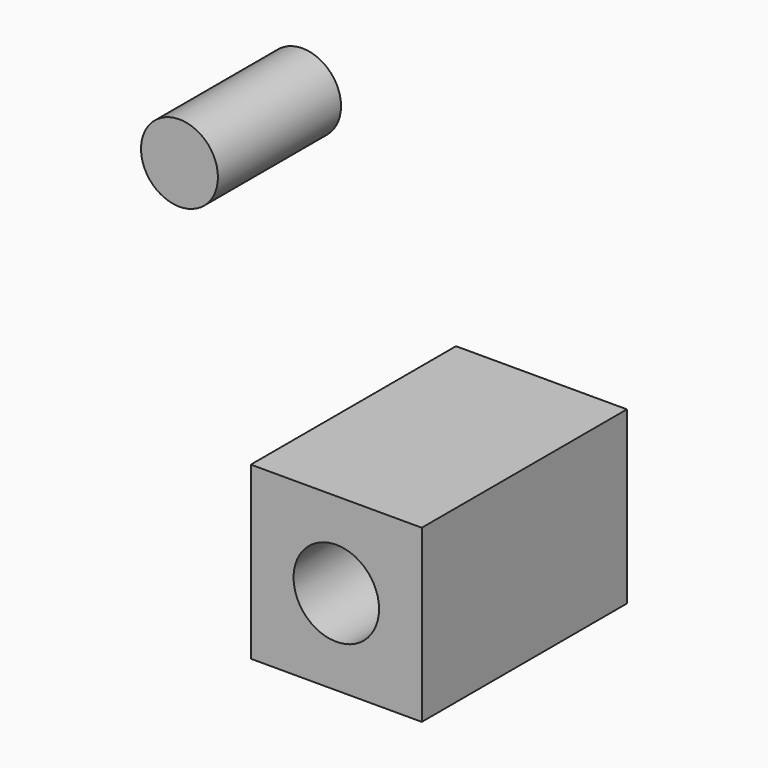
from build123d import *

# Parameters (mm, degrees)
F0_W     = 25.4
F0_H     = 25.4
F1_DEPTH = 38.1
F2_R     = 6.35
F3_DEPTH = 25.4
F4_R     = 5.715
F5_DEPTH = 22.86


with BuildPart() as f1:
    # F0 (on Front) → F1 (new body)
    with BuildSketch(Plane.XZ):
        Rectangle(F0_W, F0_H)
    extrude(amount=F1_DEPTH)

    # F2 (on face) → F3 (cut)
    with BuildSketch(Plane.XZ.offset(38.1)):
        Circle(F2_R)
    extrude(amount=-F3_DEPTH, mode=Mode.SUBTRACT)


with BuildPart() as f5:
    # F4 (on Front) → F5 (new body)
    with BuildSketch(Plane.XZ):
        with Locations((-35.496078, 38.534407)):
            Circle(F4_R)
    extrude(amount=F5_DEPTH)


solid = Compound([f1.part, f5.part])
